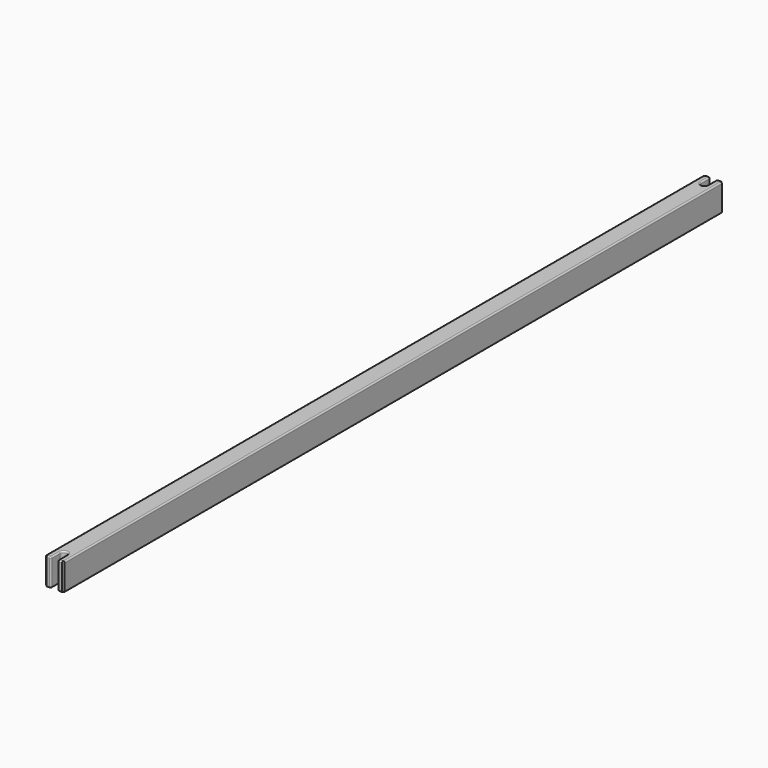
from build123d import *

# Parameters (mm, degrees)
F0_W     = 27
F0_H     = 40
F1_DEPTH = 600
F3_DEPTH = 40.001
F4_DEPTH = 40.001
F5_SIZE  = 2
F6_R     = 2


with BuildPart() as f1:
    # F0 (on Front) → F1 (new body, symmetric)
    with BuildSketch(Plane.XZ):
        with Locations((13.5, 20)):
            Rectangle(F0_W, F0_H)
    extrude(amount=F1_DEPTH, both=True)

    # F2 (on face) → F3 (cut, through all)
    with BuildSketch(Plane.XY.offset(40)):
        with BuildLine():
            Line((18.5, -600), (18.5, -583))
            ThreePointArc((18.5, -583), (13.5, -578), (8.5, -583))
            Line((8.5, -583), (8.5, -600))
            Line((8.5, -600), (18.5, -600))
        make_face()
    extrude(amount=-F3_DEPTH, mode=Mode.SUBTRACT)

    # F2 (on face) → F4 (cut, through all)
    with BuildSketch(Plane.XY.offset(40)):
        with BuildLine():
            Line((18.5, -600), (18.5, -583))
            ThreePointArc((18.5, -583), (13.5, -578), (8.5, -583))
            Line((8.5, -583), (8.5, -600))
            Line((8.5, -600), (18.5, -600))
        make_face()
        with BuildLine():
            ThreePointArc((8.5, 583), (13.5, 578), (18.5, 583))
            Line((18.5, 583), (18.5, 600))
            Line((18.5, 600), (8.5, 600))
            Line((8.5, 600), (8.5, 583))
        make_face()
    extrude(amount=-F4_DEPTH, mode=Mode.SUBTRACT)

    # F5
    f5_edges = [f1.edges().sort_by_distance(p)[0] for p in [
        (0, -600, 20),
        (27, -600, 20),
        (0, 600, 20),
        (27, 600, 20),
    ]]
    chamfer(f5_edges, length=F5_SIZE)

    # F6
    f6_edges = [f1.edges().sort_by_distance(p)[0] for p in [
        (21.75, -600, 40),
        (26, -599, 40),
        (18.5, -591.5, 40),
        (27, 0, 40),
        (13.5, -578, 40),
        (26, 599, 40),
        (8.5, -591.5, 40),
        (21.75, 600, 40),
        (5.25, -600, 40),
        (18.5, 591.5, 40),
        (1, -599, 40),
        (13.5, 578, 40),
        (0, 0, 40),
        (8.5, 591.5, 40),
        (1, 599, 40),
        (5.25, 600, 40),
        (0, 0, 0),
        (1, 599, 0),
        (1, -599, 0),
        (5.25, 600, 0),
        (5.25, -600, 0),
        (8.5, 591.5, 0),
        (8.5, -591.5, 0),
        (13.5, 578, 0),
        (13.5, -578, 0),
        (18.5, 591.5, 0),
        (18.5, -591.5, 0),
        (21.75, 600, 0),
        (21.75, -600, 0),
        (26, 599, 0),
        (26, -599, 0),
        (27, 0, 0),
        (18.5, 600, 20),
        (8.5, 600, 20),
        (18.5, -600, 20),
        (8.5, -600, 20),
    ]]
    fillet(f6_edges, radius=F6_R)


solid = f1.part
